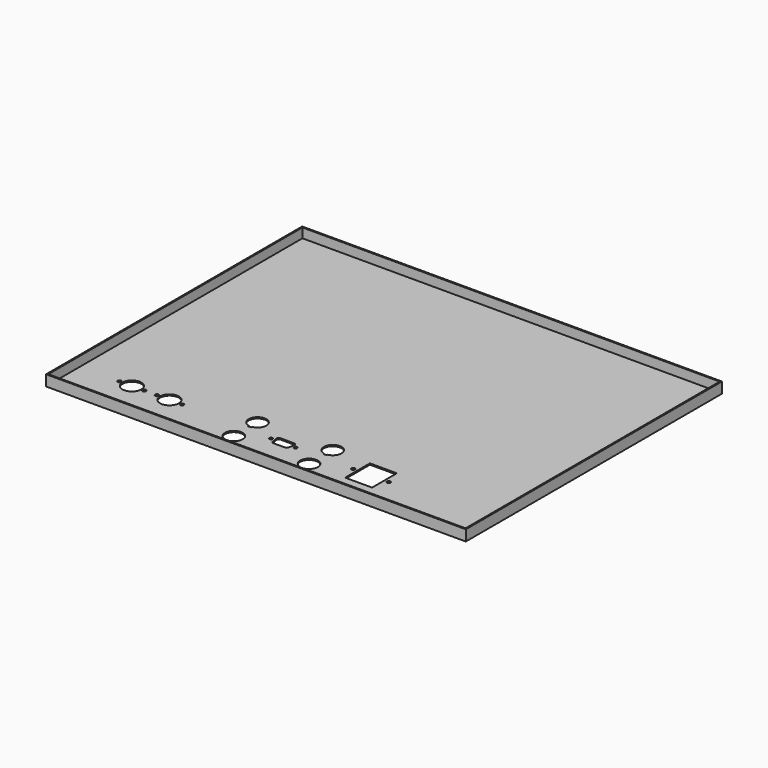
from build123d import *

# Parameters (mm, degrees)
F0_W     = 425.45
F0_H     = 324.485
F0_R     = 1.8288
F0_R_2   = 9.525
F0_R_3   = 1.5875
F0_R_4   = 1.75
F1_DEPTH = 1.27
F2_W     = 425.45
F2_H     = 324.485
F2_W_2   = 422.91
F2_H_2   = 321.945
F3_DEPTH = 9.652


with BuildPart() as f1:
    # F0 (on Top) → F1 (new body)
    with BuildSketch(Plane.XY):
        Rectangle(F0_W, F0_H)
        with Locations((-171.45, -120.9675)):
            Circle(F0_R, mode=Mode.SUBTRACT)
        with Locations((-158.75, -120.9675)):
            Circle(F0_R_2, mode=Mode.SUBTRACT)
        with Locations((-146.05, -120.9675)):
            Circle(F0_R, mode=Mode.SUBTRACT)
        with Locations((-133.35, -120.9675)):
            Circle(F0_R, mode=Mode.SUBTRACT)
        with Locations((-120.65, -120.9675)):
            Circle(F0_R_2, mode=Mode.SUBTRACT)
        with Locations((-107.95, -120.9675)):
            Circle(F0_R, mode=Mode.SUBTRACT)
        with BuildLine():
            ThreePointArc((-43.725, -146.365328), (-42.15, -128.605), (-40.575, -146.365328))
            Line((-40.575, -146.365328), (-40.575, -147.405))
            Line((-40.575, -147.405), (-43.725, -147.405))
            Line((-43.725, -147.405), (-43.725, -146.365328))
        make_face(mode=Mode.SUBTRACT)
        with Locations((-16.5468, -122.555)):
            Circle(F0_R_3, mode=Mode.SUBTRACT)
        with BuildLine():
            ThreePointArc((-13.08221, -120.26975), (-12.56128, -118.325612), (-10.737137, -117.475))
            Line((-10.737137, -117.475), (2.637137, -117.475))
            ThreePointArc((2.637137, -117.475), (4.46128, -118.325612), (4.98221, -120.26975))
            Line((4.98221, -120.26975), (4.030485, -125.66725))
            ThreePointArc((4.030485, -125.66725), (3.21605, -127.077893), (1.685412, -127.635))
            Line((1.685412, -127.635), (-9.785412, -127.635))
            ThreePointArc((-9.785412, -127.635), (-11.31605, -127.077893), (-12.130485, -125.66725))
            Line((-12.130485, -125.66725), (-13.08221, -120.26975))
        make_face(mode=Mode.SUBTRACT)
        with BuildLine():
            ThreePointArc((-43.725, -116.365328), (-42.15, -98.605), (-40.575, -116.365328))
            Line((-40.575, -116.365328), (-40.575, -117.405))
            Line((-40.575, -117.405), (-43.725, -117.405))
            Line((-43.725, -117.405), (-43.725, -116.365328))
        make_face(mode=Mode.SUBTRACT)
        with Locations((8.4468, -122.555)):
            Circle(F0_R_3, mode=Mode.SUBTRACT)
        with BuildLine():
            ThreePointArc((32.4752, -146.365363), (34.05, -128.605), (35.6248, -146.365363))
            Line((35.6248, -146.365363), (35.6248, -147.401))
            Line((35.6248, -147.401), (32.4752, -147.401))
            Line((32.4752, -147.401), (32.4752, -146.365363))
        make_face(mode=Mode.SUBTRACT)
        with Locations((66.85, -122.555)):
            Circle(F0_R_4, mode=Mode.SUBTRACT)
        with BuildLine():
            ThreePointArc((71.2, -107.855), (71.492893, -107.147893), (72.2, -106.855))
            Line((72.2, -106.855), (97.5, -106.855))
            ThreePointArc((97.5, -106.855), (98.207107, -107.147893), (98.5, -107.855))
            Line((98.5, -107.855), (98.5, -137.255))
            ThreePointArc((98.5, -137.255), (98.207107, -137.962107), (97.5, -138.255))
            Line((97.5, -138.255), (72.2, -138.255))
            ThreePointArc((72.2, -138.255), (71.492893, -137.962107), (71.2, -137.255))
            Line((71.2, -137.255), (71.2, -107.855))
        make_face(mode=Mode.SUBTRACT)
        with Locations((102.85, -122.555)):
            Circle(F0_R_4, mode=Mode.SUBTRACT)
        with BuildLine():
            ThreePointArc((32.4752, -116.365363), (34.05, -98.605), (35.6248, -116.365363))
            Line((35.6248, -116.365363), (35.6248, -117.401))
            Line((35.6248, -117.401), (32.4752, -117.401))
            Line((32.4752, -117.401), (32.4752, -116.365363))
        make_face(mode=Mode.SUBTRACT)
    extrude(amount=F1_DEPTH)

    # F2 (on face) → F3 (join)
    with BuildSketch(Plane.XY.offset(1.27)):
        Rectangle(F2_W, F2_H)
        Rectangle(F2_W_2, F2_H_2, mode=Mode.SUBTRACT)
    extrude(amount=F3_DEPTH)


solid = f1.part
